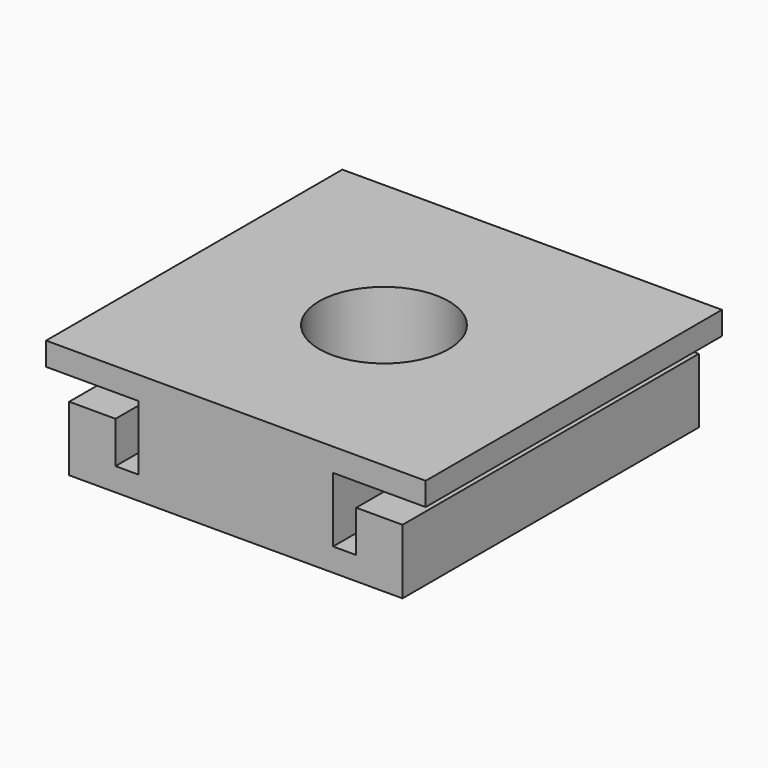
from build123d import *

# Parameters (mm, degrees)
PAD_DEPTH   = 40
SKETCH001_R = 7
HOLE_DEPTH  = 12.001


with BuildPart() as part:
    # Sketch → Pad (new body)
    with BuildSketch(Plane.XZ):
        Polygon((0, 0), (-18, 0), (-18, 7), (-13, 7), (-13, 2.5), (-10.5, 2.5), (-10.5, 9.5), (-20.5, 9.5), (-20.5, 12), (20.5, 12), (20.5, 9.5), (10.5, 9.5), (10.5, 2.5), (13, 2.5), (13, 7), (18, 7), (18, 0), align=None)
    extrude(amount=PAD_DEPTH)

    # Sketch001 (on Face9 of Pad) → Hole (cut, through all)
    with BuildSketch(Plane(origin=(0, 0, 12), x_dir=(-1, 0, 0), z_dir=(0, 0, 1))):
        with Locations((0, 20)):
            Circle(SKETCH001_R)
    extrude(amount=-HOLE_DEPTH, mode=Mode.SUBTRACT)


solid = part.part
